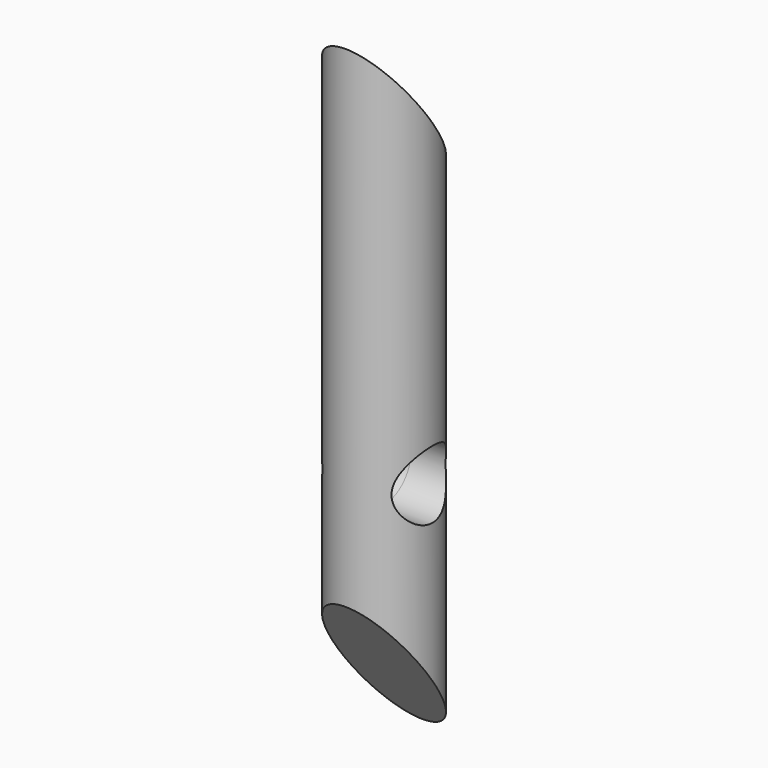
from build123d import *

# Parameters (mm, degrees)
F0_R          = 5
F1_DEPTH      = 65
F2_R          = 3.5
F3_DEPTH      = 5.0010001114
F3_DEPTH_BACK = 5.0010001


with BuildPart() as f1:
    # F0 (on Top) → F1 (new body)
    with BuildSketch(Plane.XY):
        Circle(F0_R)
    extrude(amount=F1_DEPTH)

    # F2 (on Right) → F3 (cut, two sides)
    with BuildSketch(Plane.YZ) as f3_sk:
        Polygon((-5, 14.2814800674), (-5, 0), (5, 0), align=None)
        Polygon((5, 50.7185199326), (5, 65), (-5, 65), align=None)
        with Locations((0, 25)):
            Circle(F2_R)
    extrude(amount=-F3_DEPTH, mode=Mode.SUBTRACT)
    extrude(f3_sk.sketch, amount=F3_DEPTH_BACK, mode=Mode.SUBTRACT)


solid = f1.part
